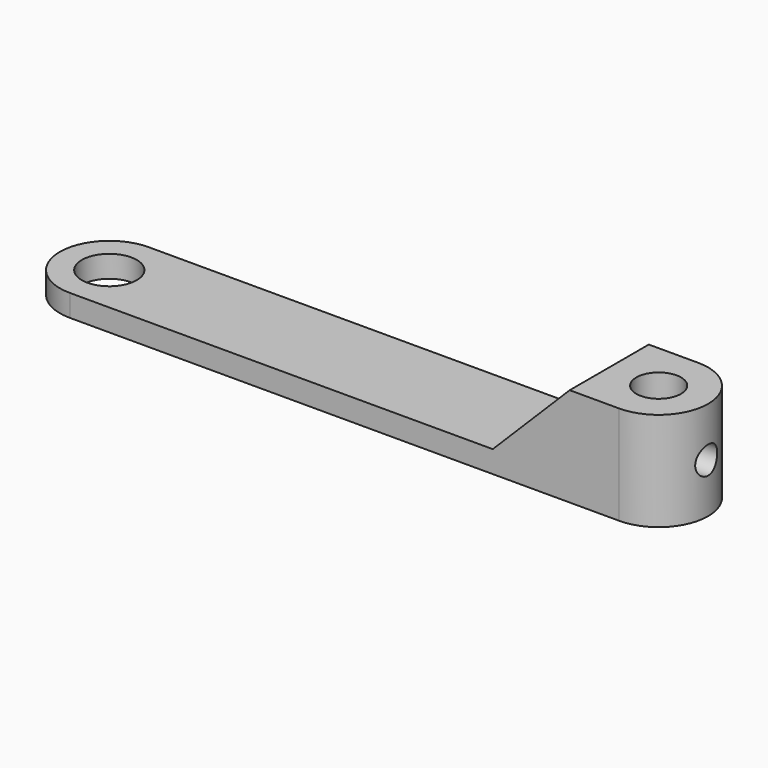
from build123d import *

# Parameters (mm, degrees)
F0_R     = 2.5
F0_R_2   = 2.032
F1_DEPTH = 9
F3_DEPTH = 9.001
F4_R     = 1.25
F5_DEPTH = 4.501


with BuildPart() as f1:
    # F0 (on Top) → F1 (new body)
    with BuildSketch(Plane.XY):
        with BuildLine():
            Line((0, 4.5), (-50, 4.5))
            ThreePointArc((-50, 4.5), (-54.5, 0), (-50, -4.5))
            Line((-50, -4.5), (0, -4.5))
            ThreePointArc((0, -4.5), (4.5, 0), (0, 4.5))
        make_face()
        with Locations((-50, 0)):
            Circle(F0_R, mode=Mode.SUBTRACT)
        Circle(F0_R_2, mode=Mode.SUBTRACT)
    extrude(amount=F1_DEPTH)

    # F2 (on face) → F3 (cut, through all)
    with BuildSketch(Plane.XZ.offset(4.5)):
        Polygon((-98.52826, 9), (-94.756936, 2), (-11.5, 2), (-4.5, 9), align=None)
    extrude(amount=-F3_DEPTH, mode=Mode.SUBTRACT)

    # F4 (on Right) → F5 (cut, through all)
    with BuildSketch(Plane.YZ):
        with Locations((0, 4.5)):
            Circle(F4_R)
    extrude(amount=F5_DEPTH, mode=Mode.SUBTRACT)


solid = f1.part
